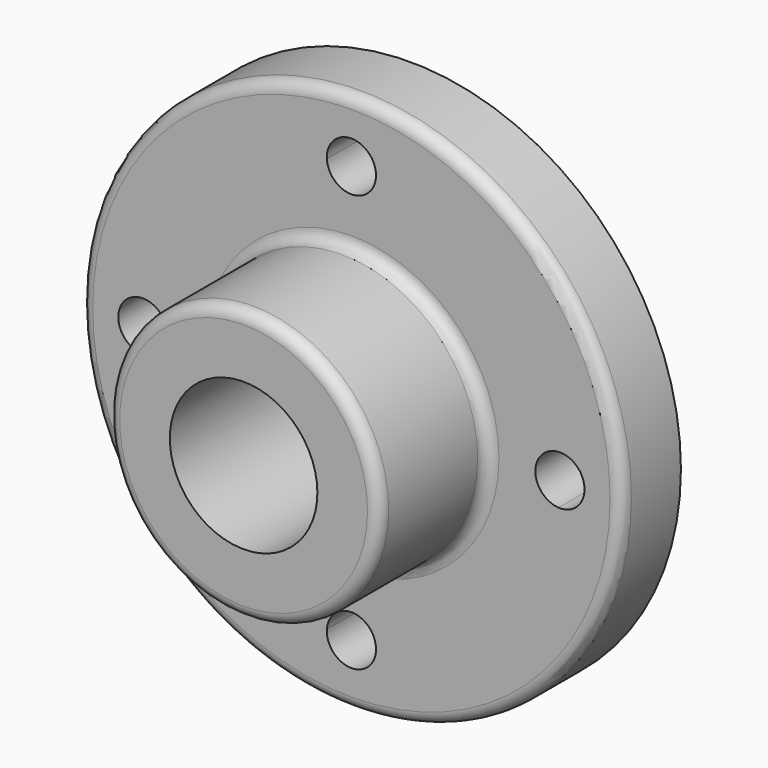
from build123d import *

# Parameters (mm, degrees)
F0_R     = 35.052
F0_R_2   = 19.05
F1_DEPTH = 53.848
F0_R_3   = 69.85
F2_DEPTH = 19.05
F3_R     = 3.048


with BuildPart() as f1:
    # F0 (on Front) → F1 (new body)
    with BuildSketch(Plane.XZ):
        Circle(F0_R)
        Circle(F0_R_2, mode=Mode.SUBTRACT)
    extrude(amount=F1_DEPTH)

    # F0 (on Front) → F2 (join)
    with BuildSketch(Plane.XZ):
        Circle(F0_R_3)
        with BuildLine():
            ThreePointArc((6.3389523479, 53.4735896226), (38.0762859533, 38.0762859533), (53.4735896226, 6.3389523479))
            ThreePointArc((53.4735896226, 6.3389523479), (58.2037429965, 4.6206063399), (60.198, 0))
            ThreePointArc((60.198, 0), (58.2037429965, -4.6206063399), (53.4735896226, -6.3389523479))
            ThreePointArc((53.4735896226, -6.3389523479), (38.0762859533, -38.0762859533), (6.3389523479, -53.4735896226))
            ThreePointArc((6.3389523479, -53.4735896226), (6.3472374861, -53.6607133338), (6.35, -53.848))
            ThreePointArc((6.35, -53.848), (-0.1872866662, -60.1952374861), (-6.3389523479, -53.4735896226))
            ThreePointArc((-6.3389523479, -53.4735896226), (-38.0762859533, -38.0762859533), (-53.4735896226, -6.3389523479))
            ThreePointArc((-53.4735896226, -6.3389523479), (-60.198, 0), (-53.4735896226, 6.3389523479))
            ThreePointArc((-53.4735896226, 6.3389523479), (-38.0762859533, 38.0762859533), (-6.3389523479, 53.4735896226))
            ThreePointArc((-6.3389523479, 53.4735896226), (-0.1872866662, 60.1952374861), (6.35, 53.848))
            ThreePointArc((6.35, 53.848), (6.3472374861, 53.6607133338), (6.3389523479, 53.4735896226))
        make_face(mode=Mode.SUBTRACT)
        with BuildLine():
            ThreePointArc((53.4735896226, -6.3389523479), (47.498, 0), (53.4735896226, 6.3389523479))
            ThreePointArc((53.4735896226, 6.3389523479), (38.0762859533, 38.0762859533), (6.3389523479, 53.4735896226))
            ThreePointArc((6.3389523479, 53.4735896226), (0, 47.498), (-6.3389523479, 53.4735896226))
            ThreePointArc((-6.3389523479, 53.4735896226), (-38.0762859533, 38.0762859533), (-53.4735896226, 6.3389523479))
            ThreePointArc((-53.4735896226, 6.3389523479), (-49.2273936601, 4.3557429965), (-47.498, 0))
            ThreePointArc((-47.498, 0), (-49.2273936601, -4.3557429965), (-53.4735896226, -6.3389523479))
            ThreePointArc((-53.4735896226, -6.3389523479), (-38.0762859533, -38.0762859533), (-6.3389523479, -53.4735896226))
            ThreePointArc((-6.3389523479, -53.4735896226), (0, -47.498), (6.3389523479, -53.4735896226))
            ThreePointArc((6.3389523479, -53.4735896226), (38.0762859533, -38.0762859533), (53.4735896226, -6.3389523479))
        make_face()
        Circle(F0_R, mode=Mode.SUBTRACT)
    extrude(amount=F2_DEPTH)

    # F3
    f3_edges = [f1.edges().sort_by_distance(p)[0] for p in [
        (-35.052, -53.848, 0),
        (-35.052, -19.05, 0),
        (-69.85, -19.05, 0),
    ]]
    fillet(f3_edges, radius=F3_R)


solid = f1.part
